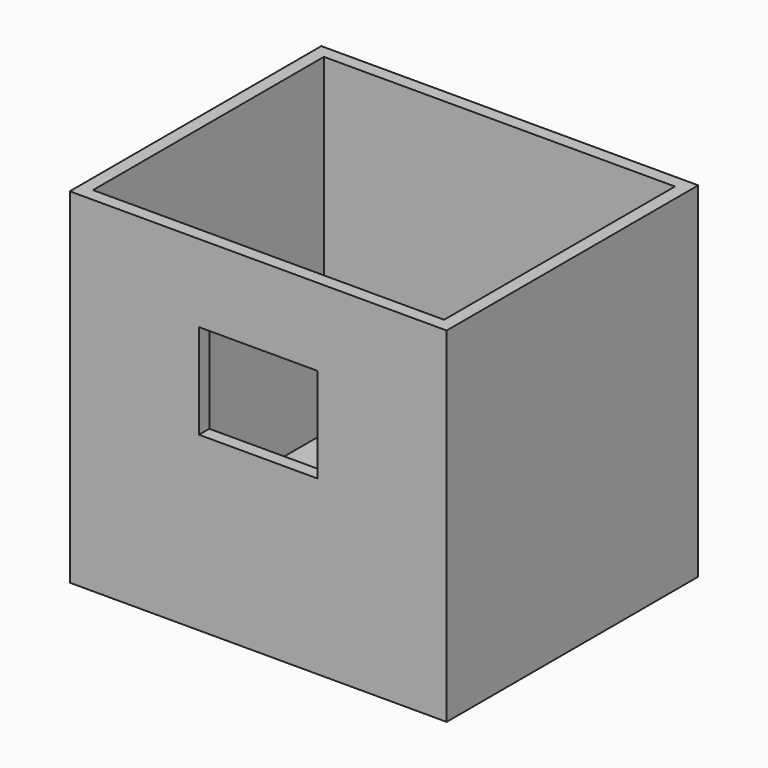
from build123d import *

# Parameters (mm, degrees)
F0_W     = 87.5
F0_H     = 73
F1_DEPTH = 80
F2_T     = -3
F3_W     = 27.5
F3_H     = 22
F4_DEPTH = 3.1


with BuildPart() as f1:
    # F0 (on Top) → F1 (new body)
    with BuildSketch(Plane.XY):
        with Locations((-428.844619, -399.653114)):
            Rectangle(F0_W, F0_H)
    extrude(amount=F1_DEPTH)

    # F2
    f2_openings = [f1.faces().sort_by_distance(p)[0] for p in [
        (-428.844619, -399.653114, 80),
    ]]
    offset(amount=F2_T, openings=f2_openings)

    # F3 (on face) → F4 (cut)
    with BuildSketch(Plane.XZ.offset(436.153114)):
        with Locations((-428.844619, 51)):
            Rectangle(F3_W, F3_H)
    extrude(amount=-F4_DEPTH, mode=Mode.SUBTRACT)


solid = f1.part
